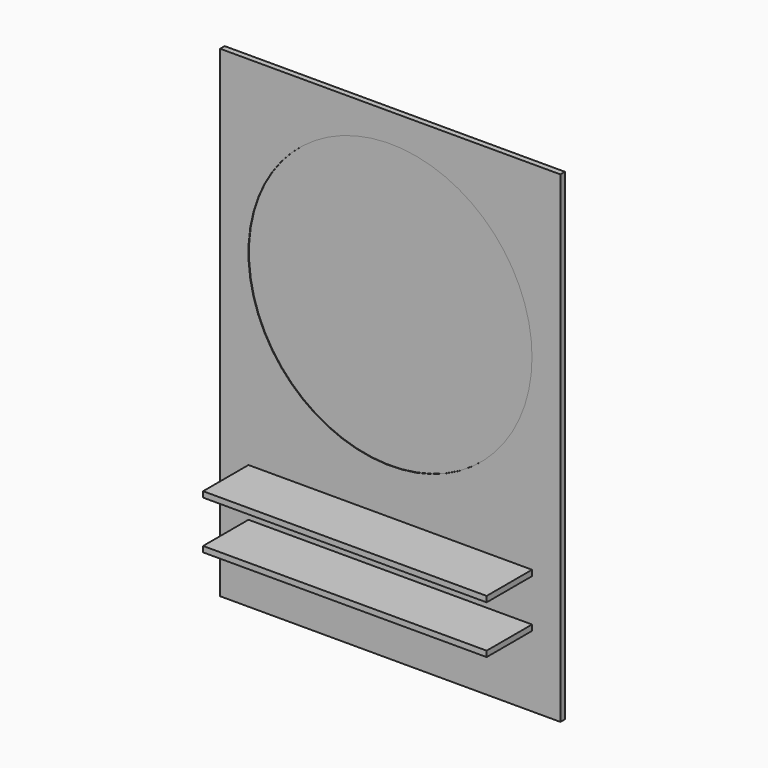
from build123d import *

# Parameters (mm, degrees)
F0_W     = 1200
F0_H     = 1700
F1_DEPTH = 20
F2_R     = 500
F3_DEPTH = 2
F4_W     = 1000
F4_H     = 20
F5_DEPTH = 200


with BuildPart() as f1:
    # F0 (on Front) → F1 (new body)
    with BuildSketch(Plane.XZ):
        with Locations((566.895331, 791.881418)):
            Rectangle(F0_W, F0_H)
    extrude(amount=F1_DEPTH)

    # F2 (on face) → F3 (cut)
    with BuildSketch(Plane.XZ.offset(20)):
        with Locations((566.895331, 1041.881418)):
            Circle(F2_R)
    extrude(amount=-F3_DEPTH, mode=Mode.SUBTRACT)

    # F4 (on face) → F5 (join)
    with BuildSketch(Plane.XZ.offset(20)):
        Polygon((66.895331, 191.881418), (566.895331, 191.881418), (1066.895331, 191.881418), (1066.895331, 211.881418), (66.895331, 211.881418), align=None)
        with Locations((566.895331, 371.881418)):
            Rectangle(F4_W, F4_H)
    extrude(amount=F5_DEPTH)


solid = f1.part
